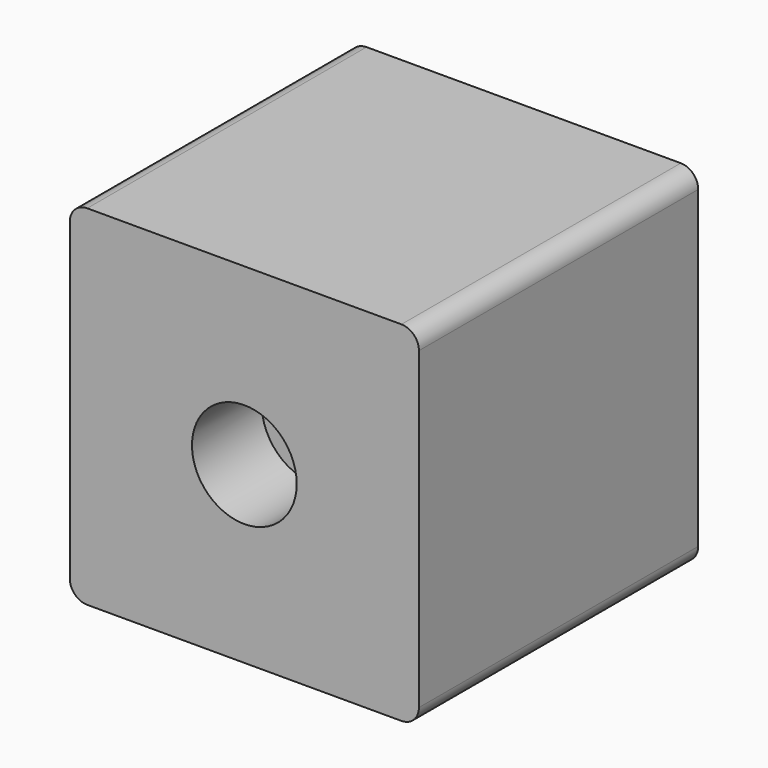
from build123d import *

# Parameters (mm, degrees)
F1_DEPTH = 100
F2_R     = 15
F3_DEPTH = 25


with BuildPart() as f1:
    # F0 (on Front) → F1 (new body)
    with BuildSketch(Plane.XZ):
        with BuildLine():
            Line((-45, -50), (45, -50))
            ThreePointArc((45, -50), (48.535534, -48.535534), (50, -45))
            Line((50, -45), (50, 45))
            ThreePointArc((50, 45), (48.535534, 48.535534), (45, 50))
            Line((45, 50), (-45, 50))
            ThreePointArc((-45, 50), (-48.535534, 48.535534), (-50, 45))
            Line((-50, 45), (-50, -45))
            ThreePointArc((-50, -45), (-48.535534, -48.535534), (-45, -50))
        make_face()
    extrude(amount=-F1_DEPTH)

    # F2 (on face) → F3 (cut)
    with BuildSketch(Plane.XZ):
        Circle(F2_R)
    extrude(amount=-F3_DEPTH, mode=Mode.SUBTRACT)


solid = f1.part
